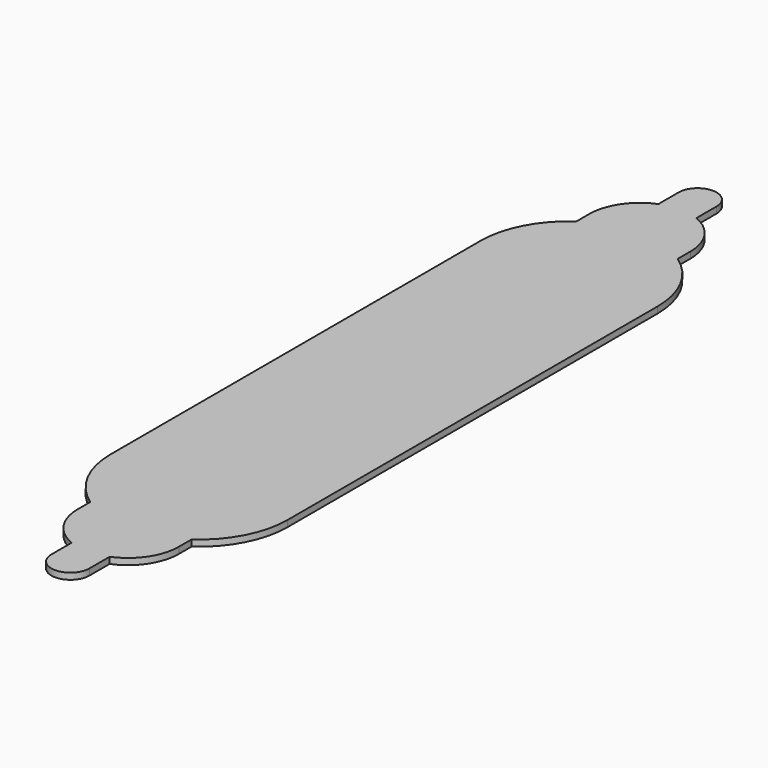
from build123d import *

# Parameters (mm, degrees)
F1_DEPTH = 3.175


with BuildPart() as f1:
    # F0 (on Top) → F1 (new body)
    with BuildSketch(Plane.XY):
        with BuildLine():
            Line((0, 263.508648), (0, 147.586621))
            ThreePointArc((0, 147.586621), (5.049286, 127.010269), (19.05, 111.108648))
            Line((19.05, 111.108648), (19.05, 103.136621))
            ThreePointArc((19.05, 103.136621), (23.389433, 88.937589), (34.925, 79.590191))
            Line((34.925, 79.590191), (34.925, 66.890191))
            ThreePointArc((34.925, 66.890191), (44.45, 57.365191), (53.975, 66.890191))
            Line((53.975, 66.890191), (53.975, 79.590191))
            ThreePointArc((53.975, 79.590191), (65.510567, 88.937589), (69.85, 103.136621))
            Line((69.85, 103.136621), (69.85, 111.108648))
            ThreePointArc((69.85, 111.108648), (83.850714, 127.010269), (88.9, 147.586621))
            Line((88.9, 147.586621), (88.9, 263.508648))
            Line((88.9, 263.508648), (88.9, 379.430675))
            ThreePointArc((88.9, 379.430675), (83.850714, 400.007027), (69.85, 415.908648))
            Line((69.85, 415.908648), (69.85, 423.880675))
            ThreePointArc((69.85, 423.880675), (65.510567, 438.079707), (53.975, 447.427105))
            Line((53.975, 447.427105), (53.975, 460.127105))
            ThreePointArc((53.975, 460.127105), (44.45, 469.652105), (34.925, 460.127105))
            Line((34.925, 460.127105), (34.925, 447.427105))
            ThreePointArc((34.925, 447.427105), (23.389433, 438.079707), (19.05, 423.880675))
            Line((19.05, 423.880675), (19.05, 415.908648))
            ThreePointArc((19.05, 415.908648), (5.049286, 400.007027), (0, 379.430675))
            Line((0, 379.430675), (0, 263.508648))
        make_face()
    extrude(amount=F1_DEPTH)


solid = f1.part
